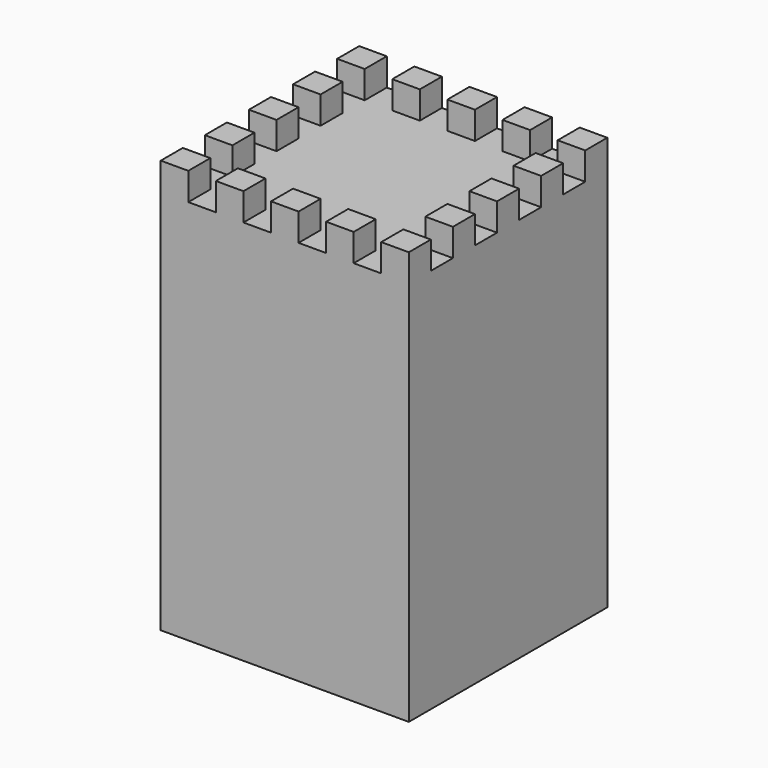
from build123d import *

# Parameters (mm, degrees)
BOX003_W                 = 50
BOX003_H                 = 50
BOX003_DEPTH             = 10
BOX002_W                 = 10
BOX002_H                 = 110
BOX002_DEPTH             = 10
ARRAY001_X_COUNT         = 4
ARRAY001_X_PITCH         = 20
ARRAY001_PLACEMENT_ANGLE = 90
BOX001_W                 = 10
BOX001_H                 = 110
BOX001_DEPTH             = 10
ARRAY_X_COUNT            = 4
ARRAY_X_PITCH            = 20
BOX_W                    = 90
BOX_H                    = 90
BOX_DEPTH                = 150


with BuildPart() as cube003:
    # Box003 → Box003 (new body)
    with BuildSketch(Plane(origin=(20, 20, 140), x_dir=(1, 0, 0), z_dir=(0, 0, 1))):
        with Locations((25, 25)):
            Rectangle(BOX003_W, BOX003_H)
    extrude(amount=BOX003_DEPTH)


with BuildPart() as array001:
    # Box002 → Box002 (new body)
    with BuildSketch(Plane(origin=(10, -10, 140), x_dir=(1, 0, 0), z_dir=(0, 0, 1))):
        with Locations((5, 55)):
            Rectangle(BOX002_W, BOX002_H)
    extrude(amount=BOX002_DEPTH)

    # Array001 X: Array001 ×4


with BuildPart() as array001_1:
    add(array001.part)
    with Locations(*[(i * ARRAY001_X_PITCH, 0, 0) for i in range(1, ARRAY001_X_COUNT)]):
        add(array001.part)


with BuildPart() as array001_2:
    # Array001 placement: moved
    add(array001_1.part.moved(Location((90, 0, 0))).rotate(Axis((90, 0, 0), (0, 0, 1)), ARRAY001_PLACEMENT_ANGLE))


with BuildPart() as array:
    # Box001 → Box001 (new body)
    with BuildSketch(Plane(origin=(10, -10, 140), x_dir=(1, 0, 0), z_dir=(0, 0, 1))):
        with Locations((5, 55)):
            Rectangle(BOX001_W, BOX001_H)
    extrude(amount=BOX001_DEPTH)

    # Array X: Array ×4


with BuildPart() as array_1:
    add(array.part)
    with Locations(*[(i * ARRAY_X_PITCH, 0, 0) for i in range(1, ARRAY_X_COUNT)]):
        add(array.part)


with BuildPart() as cut002:
    # Box → Box (new body)
    with BuildSketch(Plane.XY):
        with Locations((45, 45)):
            Rectangle(BOX_W, BOX_H)
    extrude(amount=BOX_DEPTH)

    # Cut: cut Array
    add(array_1.part, mode=Mode.SUBTRACT)

    # Cut001: cut Array001
    add(array001_2.part, mode=Mode.SUBTRACT)

    # Cut002: cut Cube003
    add(cube003.part, mode=Mode.SUBTRACT)


solid = cut002.part
